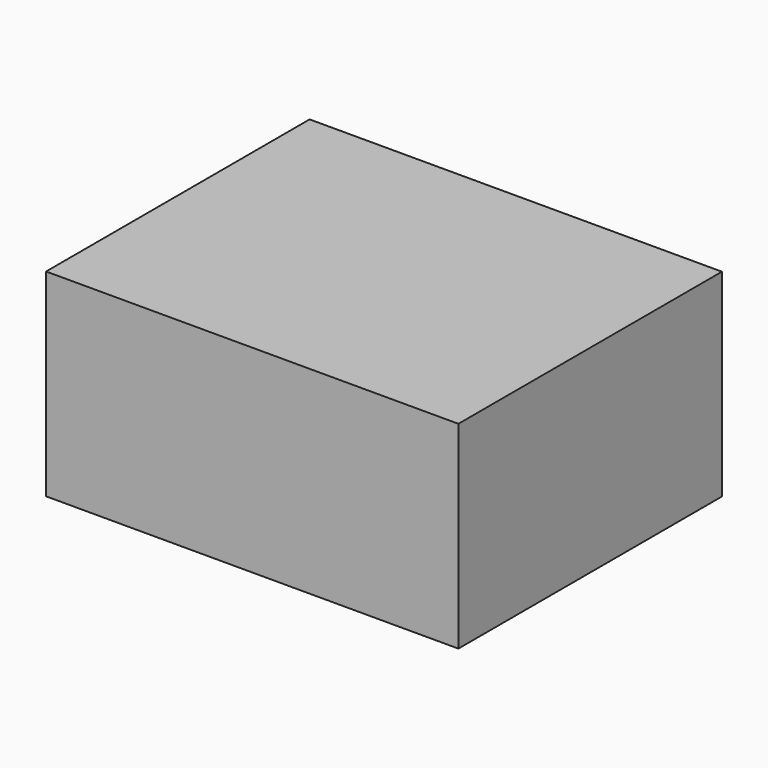
from build123d import *

# Parameters (mm, degrees)
F0_W = 146.558
F0_H = 117.094


with BuildPart() as f2:
    # F2: sweep along a path in F1
    with BuildLine(Plane.XZ) as f2_path:
        Line((0, 0), (0, 70.358))
    # F0 (on Top) → F2 (sweep)
    with BuildSketch(Plane.XY):
        Rectangle(F0_W, F0_H)
    sweep(path=f2_path.line)


solid = f2.part
